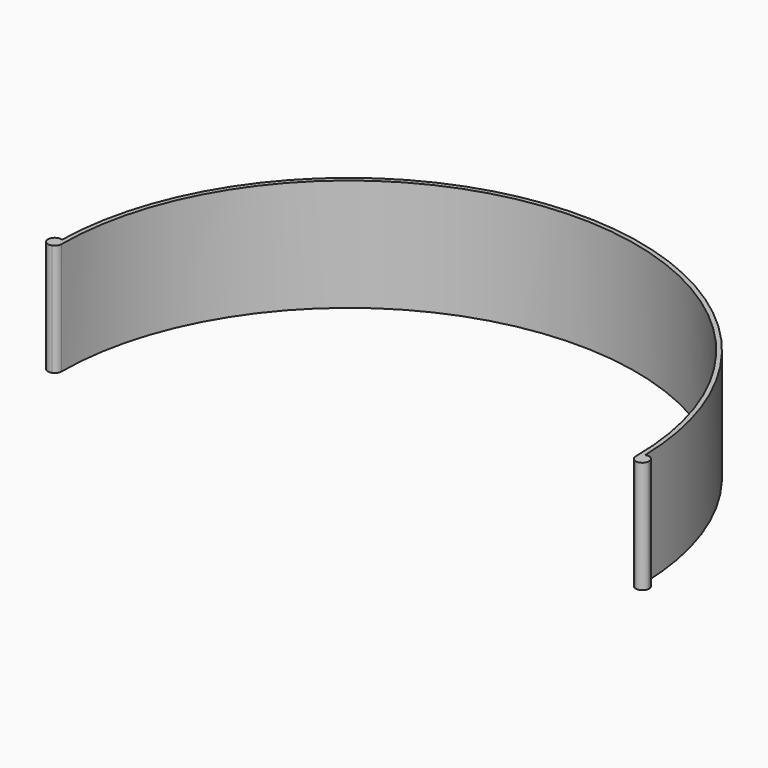
from build123d import *

# Parameters (mm, degrees)
F1_DEPTH = 25


with BuildPart() as f1:
    # F0 (on Top) → F1 (new body)
    with BuildSketch(Plane.XY):
        with BuildLine():
            ThreePointArc((64, 0), (64.270589417, 0.859389096), (64.9847328244, 1.4087227328))
            ThreePointArc((64.9847328244, 1.4087227328), (0, 65), (-64.9847328244, 1.4087227328))
            ThreePointArc((-64.9847328244, 1.4087227328), (-64.270589417, 0.859389096), (-64, 0))
            ThreePointArc((-64, 0), (0, 64), (64, 0))
        make_face()
        with BuildLine():
            ThreePointArc((-64, 0), (-64.270589417, 0.859389096), (-64.9847328244, 1.4087227328))
            ThreePointArc((-64.9847328244, 1.4087227328), (-65, 0), (-64.9847328244, -1.4087227328))
            ThreePointArc((-64.9847328244, -1.4087227328), (-64.270589417, -0.859389096), (-64, 0))
        make_face()
        with BuildLine():
            ThreePointArc((-64.9847328244, -1.4087227328), (-65, 0), (-64.9847328244, 1.4087227328))
            ThreePointArc((-64.9847328244, 1.4087227328), (-67, 0), (-64.9847328244, -1.4087227328))
        make_face()
        with BuildLine():
            ThreePointArc((64.9847328244, 1.4087227328), (64.996183094, 0.7044027301), (65, 0))
            ThreePointArc((65, 0), (64.996183094, -0.7044027301), (64.9847328244, -1.4087227328))
            ThreePointArc((64.9847328244, -1.4087227328), (66.359389096, -1.229410583), (67, 0))
            ThreePointArc((67, 0), (66.359389096, 1.229410583), (64.9847328244, 1.4087227328))
        make_face()
        with BuildLine():
            ThreePointArc((64.9847328244, -1.4087227328), (64.996183094, -0.7044027301), (65, 0))
            ThreePointArc((65, 0), (64.996183094, 0.7044027301), (64.9847328244, 1.4087227328))
            ThreePointArc((64.9847328244, 1.4087227328), (64.270589417, 0.859389096), (64, 0))
            ThreePointArc((64, 0), (64.270589417, -0.859389096), (64.9847328244, -1.4087227328))
        make_face()
    extrude(amount=F1_DEPTH)


solid = f1.part
